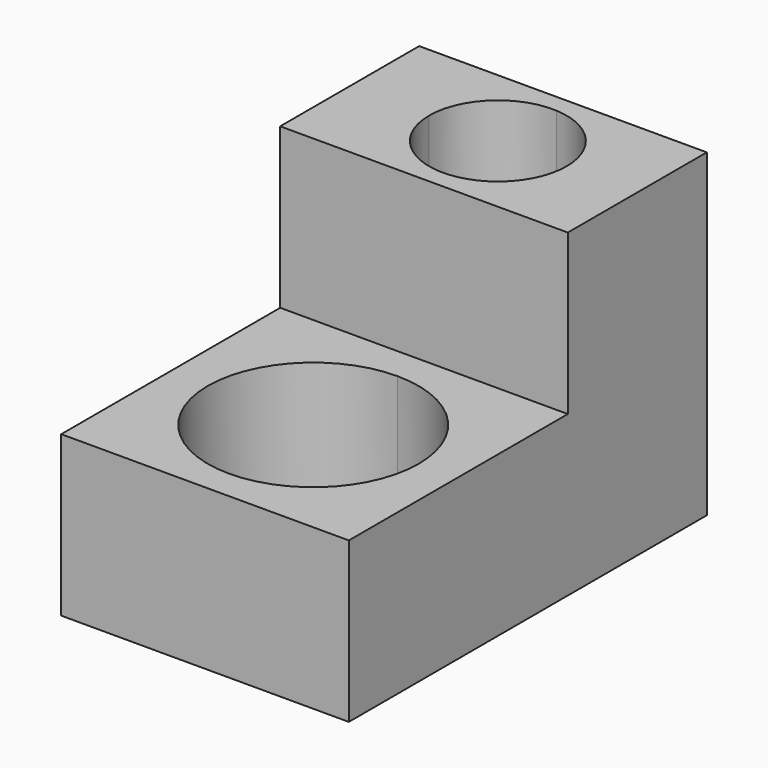
from build123d import *

# Parameters (mm, degrees)
F0_W     = 45
F0_H     = 70
F1_DEPTH = 25
F3_DEPTH = 20
F5_DEPTH = 25
F7_DEPTH = 40


with BuildPart() as f1:
    # F0 (on Top) → F1 (new body)
    with BuildSketch(Plane.XY):
        with Locations((-1.3771308213, -35)):
            Rectangle(F0_W, F0_H)
    extrude(amount=F1_DEPTH)

    # F2 (on face) → F3 (cut)
    with BuildSketch(Plane.XY.offset(25)):
        with BuildLine():
            Line((-1.3771308213, -32.347425729), (-1.3771308213, -65.347425729))
            ThreePointArc((-1.3771308213, -65.347425729), (10.2901310682, -60.5146876186), (15.1228691787, -48.847425729))
            ThreePointArc((15.1228691787, -48.847425729), (10.2901310682, -37.1801638395), (-1.3771308213, -32.347425729))
        make_face()
        with BuildLine():
            ThreePointArc((-1.3771308213, -32.347425729), (-17.8771308213, -48.847425729), (-1.3771308213, -65.347425729))
            Line((-1.3771308213, -65.347425729), (-1.3771308213, -32.347425729))
        make_face()
    extrude(amount=-F3_DEPTH, mode=Mode.SUBTRACT)

    # F4 (on face) → F5 (join)
    with BuildSketch(Plane.XY.offset(25)):
        Polygon((-23.8771308213, 0), (-23.8771308213, -27.1776393056), (0, -27.1776393056), (21.1228691787, -27.1776393056), (21.1228691787, 0), align=None)
    extrude(amount=F5_DEPTH)

    # F6 (on face) → F7 (cut)
    with BuildSketch(Plane.XY.offset(50)):
        with BuildLine():
            ThreePointArc((-0.1445451178, -2.8525939696), (-8.0951260785, -5.7974552618), (-11.4385654107, -13.5888196528))
            Line((-11.4385654107, -13.5888196528), (-0.6885654107, -13.5888196528))
            Line((-0.6885654107, -13.5888196528), (-0.1445451178, -2.8525939696))
        make_face()
        with BuildLine():
            Line((-0.6885654107, -13.5888196528), (-11.4385654107, -13.5888196528))
            ThreePointArc((-11.4385654107, -13.5888196528), (-8.4799298017, -20.9953803206), (-1.2325857035, -24.325045336))
            Line((-1.2325857035, -24.325045336), (-0.6885654107, -13.5888196528))
        make_face()
        with BuildLine():
            Line((-0.1445451178, -2.8525939696), (-0.6885654107, -13.5888196528))
            Line((-0.6885654107, -13.5888196528), (10.0614345893, -13.5888196528))
            ThreePointArc((10.0614345893, -13.5888196528), (7.1027989804, -6.182258985), (-0.1445451178, -2.8525939696))
        make_face()
        with BuildLine():
            Line((10.0614345893, -13.5888196528), (-0.6885654107, -13.5888196528))
            Line((-0.6885654107, -13.5888196528), (-1.2325857035, -24.325045336))
            ThreePointArc((-1.2325857035, -24.325045336), (6.7179952571, -21.3801840438), (10.0614345893, -13.5888196528))
        make_face()
    extrude(amount=-F7_DEPTH, mode=Mode.SUBTRACT)


solid = f1.part
